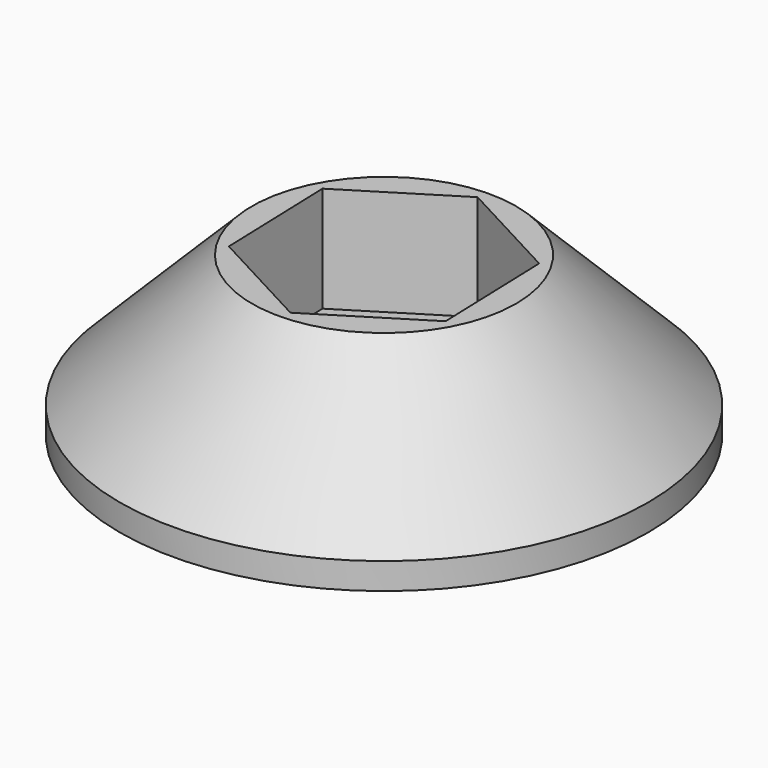
from build123d import *

# Parameters (mm, degrees)
F0_R     = 10
F1_DEPTH = 6
F2_SIZE  = 5
F4_DEPTH = 4
F5_R     = 1.625
F6_DEPTH = 5


with BuildPart() as f1:
    # F0 (on Top) → F1 (new body)
    with BuildSketch(Plane.XY):
        Circle(F0_R)
    extrude(amount=F1_DEPTH)

    # F2
    f2_edges = [f1.edges().sort_by_distance(p)[0] for p in [
        (-10, 0, 6),
    ]]
    chamfer(f2_edges, length=F2_SIZE)

    # F3 (on face) → F4 (cut)
    with BuildSketch(Plane.XY.offset(6)):
        Polygon((0.150565, -4.616347), (4.073156, -2.177781), (3.922592, 2.438566), (-0.150565, 4.616347), (-4.073156, 2.177781), (-3.922592, -2.438566), align=None)
    extrude(amount=-F4_DEPTH, mode=Mode.SUBTRACT)

    # F5 (on Top) → F6 (cut)
    with BuildSketch(Plane.XY):
        Circle(F5_R)
    extrude(amount=F6_DEPTH, mode=Mode.SUBTRACT)


solid = f1.part
